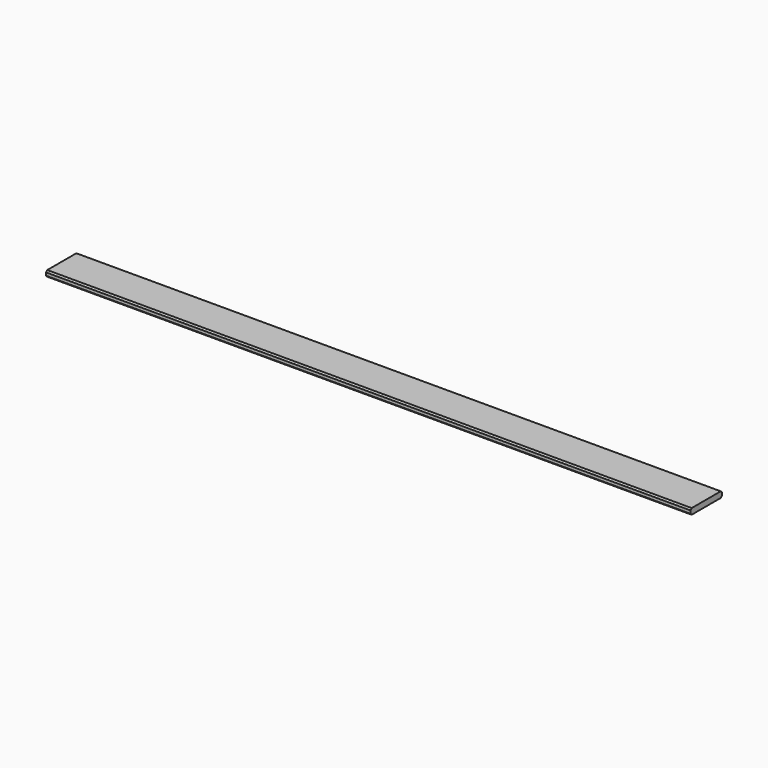
from build123d import *

# Parameters (mm, degrees)
F0_W     = 127
F0_H     = 19.05
F1_DEPTH = 1041.4
F2_SIZE  = 4.7625


with BuildPart() as f1:
    # F0 (on Right) → F1 (new body, symmetric)
    with BuildSketch(Plane.YZ):
        Rectangle(F0_W, F0_H)
    extrude(amount=F1_DEPTH, both=True)

    # F2
    f2_edges = [f1.edges().sort_by_distance(p)[0] for p in [
        (0, -63.5, 9.525),
        (0, -63.5, -9.525),
        (0, 63.5, 9.525),
        (0, 63.5, -9.525),
    ]]
    chamfer(f2_edges, length=F2_SIZE)


solid = f1.part
